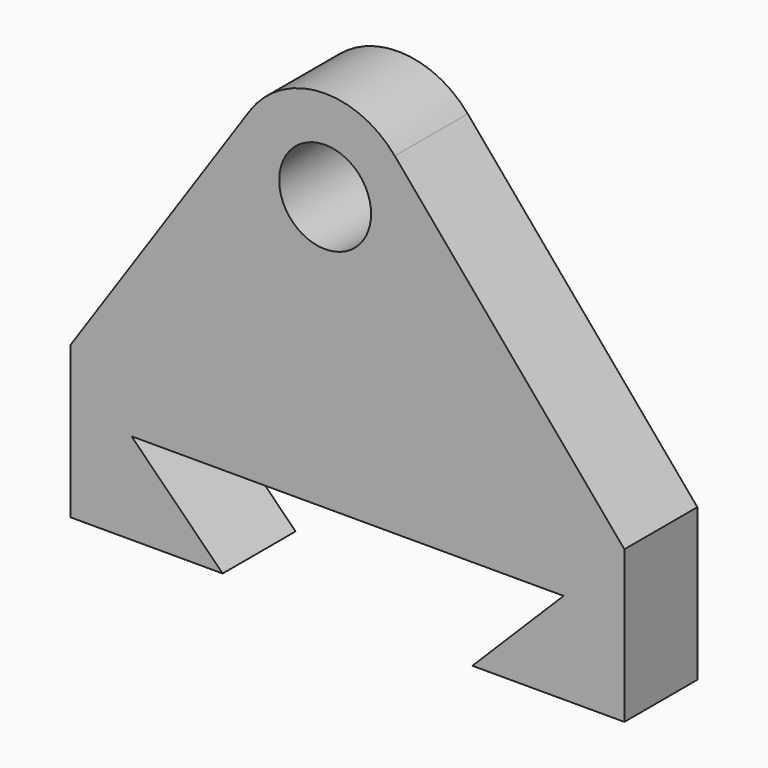
from build123d import *

# Parameters (mm, degrees)
F0_R     = 15.116536
F1_DEPTH = 30


with BuildPart() as f1:
    # F0 (on Front) → F1 (new body)
    with BuildSketch(Plane.XZ):
        with BuildLine():
            ThreePointArc((-24.83029, 58.144077), (-8.806, 12.62944), (30, 41.307905))
            ThreePointArc((30, 41.307905), (28.17257, 51.6184), (22.912913, 60.672781))
            ThreePointArc((22.912913, 60.672781), (-1.586717, 71.265914), (-24.83029, 58.144077))
        make_face()
        with Locations((0, 41.307905)):
            Circle(F0_R, mode=Mode.SUBTRACT)
        with BuildLine():
            ThreePointArc((22.912913, 60.672781), (28.17257, 51.6184), (30, 41.307905))
            ThreePointArc((30, 41.307905), (-8.806, 12.62944), (-24.83029, 58.144077))
            Line((-24.83029, 58.144077), (-83.709534, -28.692095))
            Line((-83.709534, -28.692095), (98.439749, -28.692095))
            Line((98.439749, -28.692095), (22.912913, 60.672781))
        make_face()
        Polygon((98.439749, -78.692095), (98.439749, -28.692095), (-83.709534, -28.692095), (-83.709534, -78.692095), (-33.709534, -78.692095), (-63.709534, -48.692095), (78.439749, -48.692095), (48.439749, -78.692095), align=None)
    extrude(amount=F1_DEPTH)


solid = f1.part
